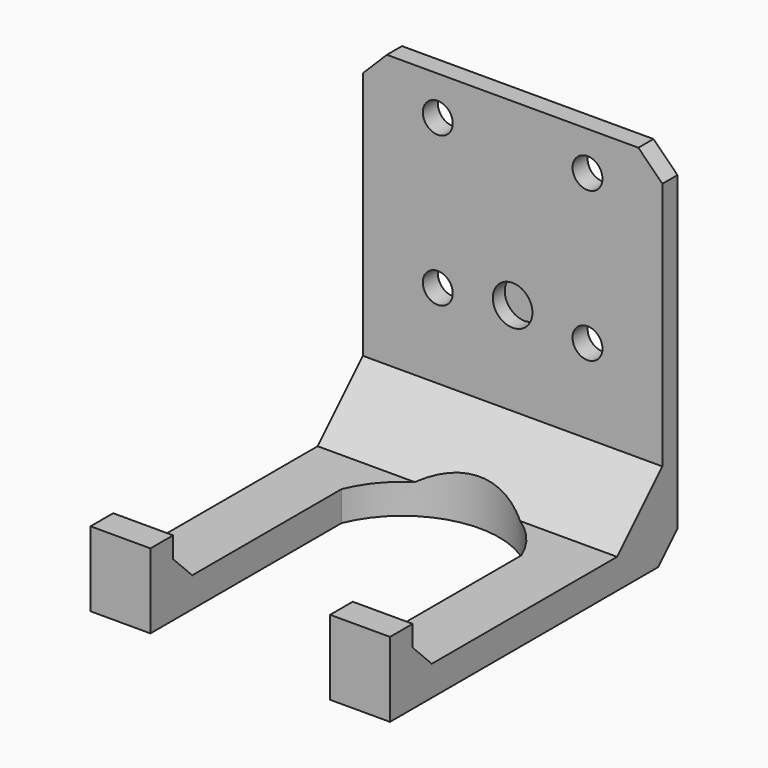
from build123d import *

# Parameters (mm, degrees)
F1_DEPTH = 31.75
F2_SIZE  = 12
F4_DEPTH = 25.4
F5_R     = 3.175
F6_DEPTH = 25.4
F7_SIZE  = 5.08
F8_R     = 4.200525
F9_DEPTH = 3.175
F10_SIZE = 5.08


with BuildPart() as f1:
    # F0 (on Right) → F1 (new body, symmetric)
    with BuildSketch(Plane.YZ):
        Polygon((-72.2, 15.875), (-72.2, 0), (4, 0), (4, 76.2), (0, 76.2), (0, 6.35), (-66.2, 6.35), (-66.2, 15.875), align=None)
    extrude(amount=F1_DEPTH, both=True)

    # F2
    f2_edges = [f1.edges().sort_by_distance(p)[0] for p in [
        (0, 0, 6.35),
    ]]
    chamfer(f2_edges, length=F2_SIZE)

    # F3 (on Top) → F4 (cut)
    with BuildSketch(Plane.XY):
        with BuildLine():
            Line((-19.05, -21.518925), (-19.05, -72.2))
            Line((-19.05, -72.2), (19.05, -72.2))
            Line((19.05, -72.2), (19.05, -21.518925))
            ThreePointArc((19.05, -21.518925), (0, -8.7), (-19.05, -21.518925))
        make_face()
    extrude(amount=F4_DEPTH, mode=Mode.SUBTRACT)

    # F5 (on face) → F6 (cut)
    with BuildSketch(Plane.XZ):
        with Locations((-15.875, 67.945)):
            Circle(F5_R)
        with Locations((15.875, 67.945)):
            Circle(F5_R)
        with Locations((-15.875, 36.195)):
            Circle(F5_R)
        with Locations((15.875, 36.195)):
            Circle(F5_R)
    extrude(amount=-F6_DEPTH, mode=Mode.SUBTRACT)

    # F7
    f7_edges = [f1.edges().sort_by_distance(p)[0] for p in [
        (-25.4, -66.2, 6.35),
        (25.4, -66.2, 6.35),
    ]]
    chamfer(f7_edges, length=F7_SIZE)

    # F8 (on face) → F9 (cut)
    with BuildSketch(Plane.XZ):
        with Locations((0, 38.1)):
            Circle(F8_R)
    extrude(amount=-F9_DEPTH, mode=Mode.SUBTRACT)

    # F10
    f10_edges = [f1.edges().sort_by_distance(p)[0] for p in [
        (31.75, 2, 76.2),
        (-31.75, 2, 76.2),
        (0, 4, 0),
    ]]
    chamfer(f10_edges, length=F10_SIZE)


solid = f1.part
